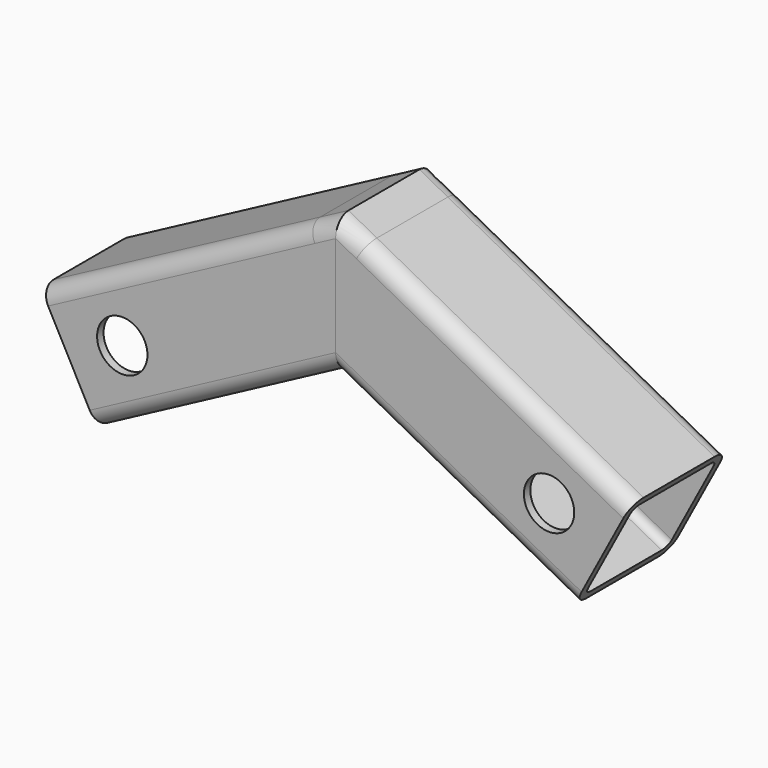
from build123d import *

# Parameters (mm, degrees)
F4_DEPTH = 25
F6_DEPTH = 30.001
F7_R     = 6.25
F8_DEPTH = 30.001


with BuildPart() as f3:
    # F3: sweep along a path in F0
    with BuildLine(Plane.XZ) as f3_path:
        Line((0, 0), (-66.2210694644, -35.2103672089))
    # F2 (on line) → F3 (sweep)
    with BuildSketch(Plane(origin=(-66.2210694644, 0, -35.2103672089), x_dir=(0, -1, 0), z_dir=(-0.8829475929, 0, -0.4694715628))):
        with BuildLine():
            Line((-11, -15), (11, -15))
            ThreePointArc((11, -15), (13.8284271247, -13.8284271247), (15, -11))
            Line((15, -11), (15, 11))
            ThreePointArc((15, 11), (13.8284271247, 13.8284271247), (11, 15))
            Line((11, 15), (-11, 15))
            ThreePointArc((-11, 15), (-13.8284271247, 13.8284271247), (-15, 11))
            Line((-15, 11), (-15, -11))
            ThreePointArc((-15, -11), (-13.8284271247, -13.8284271247), (-11, -15))
        make_face()
        with BuildLine():
            ThreePointArc((-11, -13), (-12.4142135624, -12.4142135624), (-13, -11))
            Line((-13, -11), (-13, 11))
            ThreePointArc((-13, 11), (-12.4142135624, 12.4142135624), (-11, 13))
            Line((-11, 13), (11, 13))
            ThreePointArc((11, 13), (12.4142135624, 12.4142135624), (13, 11))
            Line((13, 11), (13, -11))
            ThreePointArc((13, -11), (12.4142135624, -12.4142135624), (11, -13))
            Line((11, -13), (-11, -13))
        make_face(mode=Mode.SUBTRACT)
    sweep(path=f3_path.line)

    # F4 (add): a face of the model
    f4_faces = [f3.faces().sort_by_distance(p)[0] for p in [
        (6.8428935264, 0, -12.8696109547),
    ]]
    extrude(f4_faces, amount=F4_DEPTH)

    # F5 (on face) → F6 (cut, through all)
    with BuildSketch(Plane.XZ.offset(15)):
        Polygon((15.0316163797, 24.9810029625), (0, 16.9885507603), (0, -16.9885507603), (29.1157632633, -1.5074248232), align=None)
    extrude(amount=-F6_DEPTH, mode=Mode.SUBTRACT)

    # F7 (on face) → F8 (cut, through all)
    with BuildSketch(Plane.XZ.offset(15)):
        with Locations((-52.9768555715, -28.1682937672)):
            Circle(F7_R)
    extrude(amount=-F8_DEPTH, mode=Mode.SUBTRACT)


with BuildPart() as f9_1:
    # F9: instance of F3
    add(f3.part.mirror(Plane.YZ))


solid = Compound([f3.part, f9_1.part])
